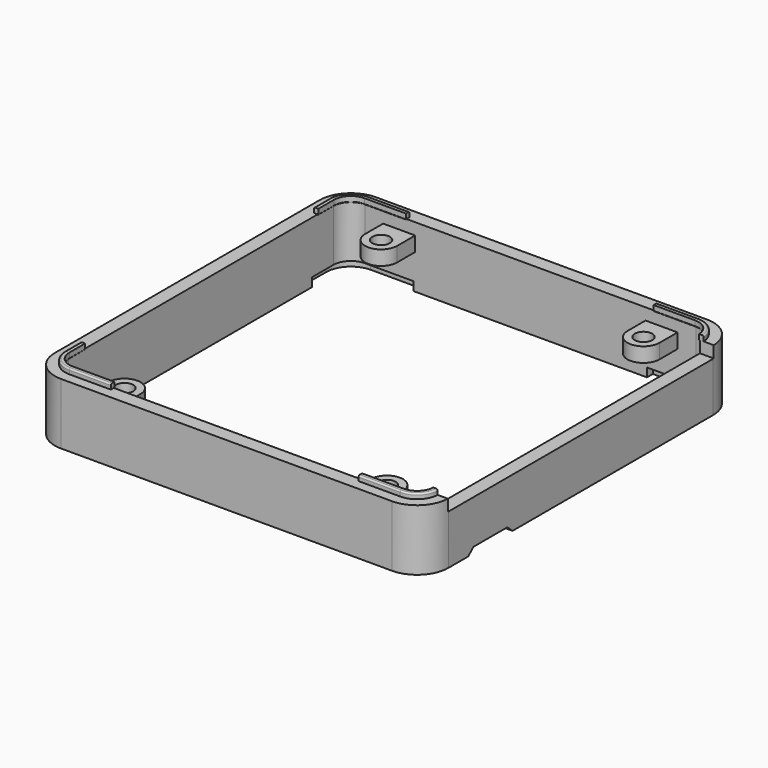
from build123d import *

# Parameters (mm, degrees)
EXTRUDE006_DEPTH                     = 2
EXTRUDE006_ONTO_SKETCH006_ROLL_ANGLE = 90
EXTRUDE006_PLACEMENT_ANGLE           = 90
SKETCH_W                             = 14.047477
SKETCH_H                             = 45.6
EXTRUDE004_DEPTH                     = 10
SKETCH002_R                          = 1.2
EXTRUDE001_DEPTH                     = 2
EXTRUDE005_DEPTH                     = 10
EXTRUDE003_DEPTH                     = 0.7
EXTRUDE003_DEPTH_BACK                = 0.2
FILLET_R                             = 0.2
CHAMFER_SIZE                         = 0.2
EXTRUDE002_DEPTH                     = 2
EXTRUDE_DEPTH                        = 1.6
EXTRUDE_DEPTH_BACK                   = 6.8


with BuildPart() as extrude006:
    # Sketch006 as drawn → Extrude006 (new, symmetric)
    with BuildSketch(Plane.XY):
        Polygon((-3.8, 0), (-2.9, 0.8), (2.9, 0.8), (3.8, 0), align=None)
    extrude(amount=EXTRUDE006_DEPTH, both=True)


with BuildPart() as extrude006_1:
    # Extrude006 onto Sketch006 roll: moved
    add(extrude006.part.rotate(Axis((0, 0, 0), (1, 0, 0)), EXTRUDE006_ONTO_SKETCH006_ROLL_ANGLE))


with BuildPart() as extrude006_2:
    # Extrude006 onto Sketch006 placement: moved
    add(extrude006_1.part)


with BuildPart() as extrude006_3:
    # Extrude006 placement: moved
    add(extrude006_2.part.moved(Location((50, 9.5, -6.8))).rotate(Axis((50, 9.5, -6.8), (0, 0, 1)), EXTRUDE006_PLACEMENT_ANGLE))


with BuildPart() as extrude004:
    # Sketch → Extrude004 (new body)
    with BuildSketch(Plane.XY):
        with Locations((51.252235, 25)):
            Rectangle(SKETCH_W, SKETCH_H)
    extrude(amount=EXTRUDE004_DEPTH)


with BuildPart() as extrude001:
    # Sketch002 → Extrude001 (new body)
    with BuildSketch(Plane.XY):
        with BuildLine():
            Line((4.8, 47), (4.8, 51))
            Line((4.8, 51), (9.2, 51))
            Line((9.2, 51), (9.2, 47.000001))
            ThreePointArc((4.8, 47), (7, 44.8), (9.2, 47.000001))
        make_face()
        with Locations((7, 47)):
            Circle(SKETCH002_R, mode=Mode.SUBTRACT)
        with BuildLine():
            ThreePointArc((9.2, 3), (7, 5.2), (4.8, 3))
            Line((4.8, 3), (4.8, -1))
            Line((4.8, -1), (9.2, -1))
            Line((9.2, -1), (9.2, 3))
        make_face()
        with Locations((7, 3)):
            Circle(SKETCH002_R, mode=Mode.SUBTRACT)
        with BuildLine():
            Line((40.8, 47), (40.8, 51))
            Line((40.8, 51), (45.2, 51))
            Line((45.2, 51), (45.2, 46.999987))
            ThreePointArc((40.8, 47), (42.999993, 44.8), (45.2, 46.999987))
        make_face()
        with Locations((43, 47)):
            Circle(SKETCH002_R, mode=Mode.SUBTRACT)
        with BuildLine():
            ThreePointArc((45.2, 3), (43, 5.2), (40.8, 3))
            Line((40.8, 3), (40.8, -1))
            Line((40.8, -1), (45.2, -1))
            Line((45.2, -1), (45.2, 3))
        make_face()
        with Locations((43, 3)):
            Circle(SKETCH002_R, mode=Mode.SUBTRACT)
    extrude(amount=-EXTRUDE001_DEPTH)


with BuildPart() as extrude005:
    # Sketch005 → Extrude005 (new body)
    with BuildSketch(Plane.XY):
        Polygon((8, 53), (8, 45), (-3, 45), (-3, 5), (8, 5), (8, -3), (42, -3), (42, 5), (53, 5), (53, 45), (42, 45), (42, 53), align=None)
    extrude(amount=EXTRUDE005_DEPTH)


with BuildPart() as cut003:
    # Sketch004 → Extrude003 (new body, two sides)
    with BuildSketch(Plane.XY) as extrude003_sk:
        with BuildLine():
            Line((2.3, 50.6), (47.7, 50.6))
            ThreePointArc((50.6, 47.7), (49.75061, 49.75061), (47.7, 50.6))
            Line((50.6, 47.7), (50.6, 2.3))
            ThreePointArc((47.7, -0.6), (49.75061, 0.24939), (50.6, 2.3))
            Line((47.7, -0.6), (2.3, -0.6))
            ThreePointArc((-0.6, 2.3), (0.24939, 0.24939), (2.3, -0.6))
            Line((-0.6, 2.3), (-0.6, 47.7))
            ThreePointArc((2.3, 50.6), (0.24939, 49.75061), (-0.6, 47.7))
        make_face()
        with BuildLine():
            Line((2.3, 50), (47.7, 50))
            ThreePointArc((50, 47.7), (49.326346, 49.326346), (47.7, 50))
            Line((50, 47.7), (50, 2.3))
            ThreePointArc((47.7, 0), (49.326346, 0.673654), (50, 2.3))
            Line((47.7, 0), (2.3, 0))
            ThreePointArc((0, 2.3), (0.673654, 0.673654), (2.3, 0))
            Line((0, 2.3), (0, 47.7))
            ThreePointArc((2.3, 50), (0.673654, 49.326346), (0, 47.7))
        make_face(mode=Mode.SUBTRACT)
    extrude(amount=EXTRUDE003_DEPTH)
    extrude(extrude003_sk.sketch, amount=-EXTRUDE003_DEPTH_BACK)


with BuildPart() as cut003_1:
    # Extrude003 placement: moved
    add(cut003.part.moved(Location((0, 0, 1.6))))

    # Fillet
    fillet_edges = [cut003_1.edges().sort_by_distance(p)[0] for p in [
        (-0.6, 25, 2.3),
        (0.24939, 49.75061, 2.3),
        (25, 50.6, 2.3),
        (49.75061, 49.75061, 2.3),
        (50.6, 25, 2.3),
        (49.75061, 0.24939, 2.3),
        (25, -0.6, 2.3),
        (0.24939, 0.24939, 2.3),
    ]]
    fillet(fillet_edges, radius=FILLET_R)

    # Chamfer
    chamfer_edges = [cut003_1.edges().sort_by_distance(p)[0] for p in [
        (0, 25, 1.4),
        (0.673654, 49.326346, 1.4),
        (25, 50, 1.4),
        (49.326346, 49.326346, 1.4),
        (50, 25, 1.4),
        (49.326346, 0.673654, 1.4),
        (25, 0, 1.4),
        (0.673654, 0.673654, 1.4),
    ]]
    chamfer(chamfer_edges, length=CHAMFER_SIZE)

    # Cut003: cut Extrude005
    add(extrude005.part, mode=Mode.SUBTRACT)


with BuildPart() as extrude002:
    # Sketch003 → Extrude002 (new body)
    with BuildSketch(Plane.XY):
        with BuildLine():
            Line((2.3, 51.1), (9, 51.1))
            Line((9, 44), (9, 51.1))
            Line((-1.1, 44), (9, 44))
            Line((-1.1, 44), (-1.1, 47.654452))
            ThreePointArc((2.3, 51.1), (-0.12032, 50.088024), (-1.1, 47.654452))
        make_face()
        with BuildLine():
            Line((51.1, 47.699699), (51.1, 44))
            Line((41, 44), (51.1, 44))
            Line((41, 51.1), (41, 44))
            Line((41, 51.1), (47.698586, 51.1))
            ThreePointArc((51.1, 47.699699), (50.103681, 50.104468), (47.698586, 51.1))
        make_face()
        with BuildLine():
            Line((47.6997, -1.1), (41, -1.1))
            Line((41, -1.1), (41, 6))
            Line((41, 6), (51.1, 6))
            Line((51.1, 6), (51.1, 2.297304))
            ThreePointArc((47.6997, -1.1), (50.103016, -0.105134), (51.1, 2.297304))
        make_face()
        with BuildLine():
            Line((-1.1, 2.300296), (-1.1, 6))
            Line((-1.1, 6), (9, 6))
            Line((9, 6), (9, -1.1))
            Line((9, -1.1), (2.294563, -1.1))
            ThreePointArc((-1.1, 2.300296), (-0.106103, -0.10205), (2.294563, -1.1))
        make_face()
    extrude(amount=-EXTRUDE002_DEPTH)


with BuildPart() as extrude002_1:
    # Extrude002 placement: moved
    add(extrude002.part.moved(Location((0, 0, -5.6))))


with BuildPart() as cut004:
    # Sketch001 → Extrude (new body, two sides)
    with BuildSketch(Plane.XY) as extrude_sk:
        with BuildLine():
            Line((2.3, 52), (47.7, 52))
            ThreePointArc((52, 47.7), (50.740559, 50.740559), (47.7, 52))
            Line((52, 47.7), (52, 2.3))
            ThreePointArc((47.7, -2), (50.740559, -0.740559), (52, 2.3))
            Line((47.7, -2), (2.3, -2))
            ThreePointArc((-2, 2.3), (-0.740559, -0.740559), (2.3, -2))
            Line((-2, 2.3), (-2, 47.7))
            ThreePointArc((2.3, 52), (-0.740559, 50.740559), (-2, 47.7))
        make_face()
        with BuildLine():
            Line((2.3, 50.1), (47.7, 50.1))
            ThreePointArc((50.1, 47.7), (49.397056, 49.397056), (47.7, 50.1))
            Line((50.1, 47.7), (50.1, 2.3))
            ThreePointArc((47.7, -0.1), (49.397056, 0.602944), (50.1, 2.3))
            Line((47.7, -0.1), (2.3, -0.1))
            ThreePointArc((-0.1, 2.3), (0.602944, 0.602944), (2.3, -0.1))
            Line((-0.1, 2.3), (-0.1, 47.7))
            ThreePointArc((2.3, 50.1), (0.602944, 49.397056), (-0.1, 47.7))
        make_face(mode=Mode.SUBTRACT)
    extrude(amount=EXTRUDE_DEPTH)
    extrude(extrude_sk.sketch, amount=-EXTRUDE_DEPTH_BACK)

    # Cut002: cut Extrude002
    add(extrude002_1.part, mode=Mode.SUBTRACT)

    # Fusion001: union Cut003
    add(cut003_1.part)

    # Fusion002: union Extrude001
    add(extrude001.part)

    # Cut: cut Extrude004
    add(extrude004.part, mode=Mode.SUBTRACT)

    # Cut004: cut Extrude006
    add(extrude006_3.part, mode=Mode.SUBTRACT)


solid = cut004.part
